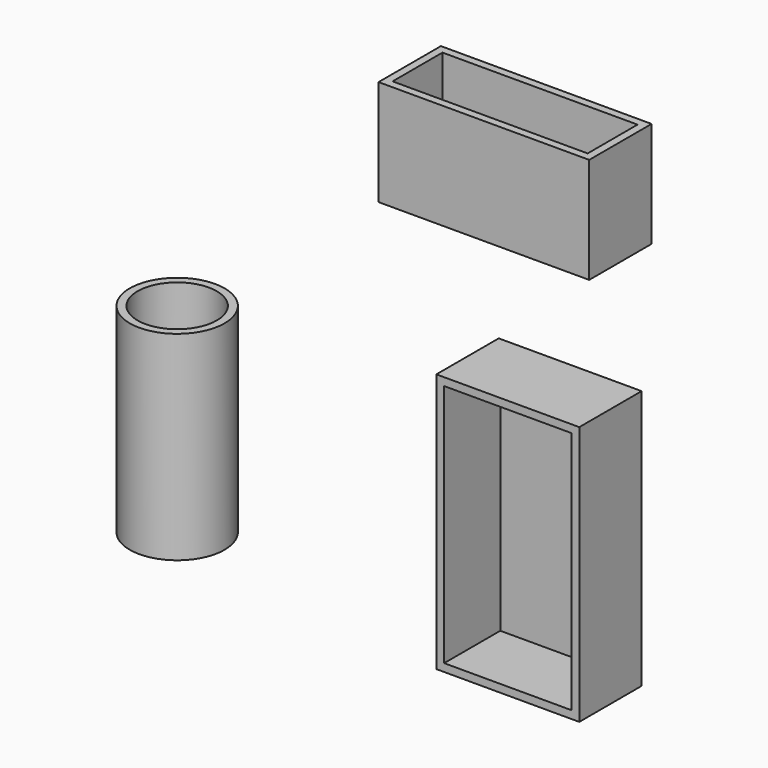
from build123d import *

# Parameters (mm, degrees)
F3_W     = 68.6399489641
F3_H     = 34.4287902117
F0_DEPTH = 25.4
F3_W_2   = 15.4516622424
F3_H_2   = 64.9661496282
F3_W_3   = 46.5666726232
F3_H_3   = 84.5590159297
F3_W_4   = 104.7514826059
F3_H_4   = 29.427357018
F2_T     = -2.54
F2_2_T   = -2.54
F2_3_T   = -2.54


with BuildPart() as f0:
    # F3 (on Front) → F0 (new body)
    with BuildSketch(Plane.XZ):
        with Locations((34.3199744821, 136.8397399783)):
            Rectangle(F3_W, F3_H)
    extrude(amount=F0_DEPTH)

    # F2#3
    f2_3_openings = [f0.faces().sort_by_distance(p)[0] for p in [
        (34.319974, -12.7, 154.054135),
    ]]
    offset(amount=F2_3_T, openings=f2_3_openings)


with BuildPart() as f0b:
    # F3 (on Front) → F0, piece 2 (new body)
    with BuildSketch(Plane.XZ):
        with Locations((-78.2108865678, 19.120786339)):
            Rectangle(F3_W_2, F3_H_2)
    extrude(amount=F0_DEPTH)


with BuildPart() as f0c:
    # F3 (on Front) → F0, piece 3 (new body)
    with BuildSketch(Plane.XZ):
        with Locations((42.1216227114, 34.0669490397)):
            Rectangle(F3_W_3, F3_H_3)
    extrude(amount=F0_DEPTH)

    # F2#2
    f2_2_openings = [f0c.faces().sort_by_distance(p)[0] for p in [
        (42.121623, -25.4, 34.066949),
    ]]
    offset(amount=F2_2_T, openings=f2_2_openings)


with BuildPart() as f0d:
    # F3 (on Front) → F0, piece 4 (new body)
    with BuildSketch(Plane.XZ):
        with Locations((-23.4009698033, -83.7902016938)):
            Rectangle(F3_W_4, F3_H_4)
    extrude(amount=F0_DEPTH)


with BuildPart() as f4:
    # F3 (on Front) → F4 (revolve)
    with BuildSketch(Plane.XZ):
        with Locations((-78.2108865678, 19.120786339)):
            Rectangle(F3_W_2, F3_H_2)
    revolve(axis=Axis((-85.936717689, 0, 19.120786339), (0, 0, -1)))

    # F2
    f2_openings = [f4.faces().sort_by_distance(p)[0] for p in [
        (-85.936718, 0, 51.603861),
        (-85.936718, 0, -13.362288),
    ]]
    offset(amount=F2_T, openings=f2_openings)


solid = Compound([f0.part, f0c.part, f4.part])
